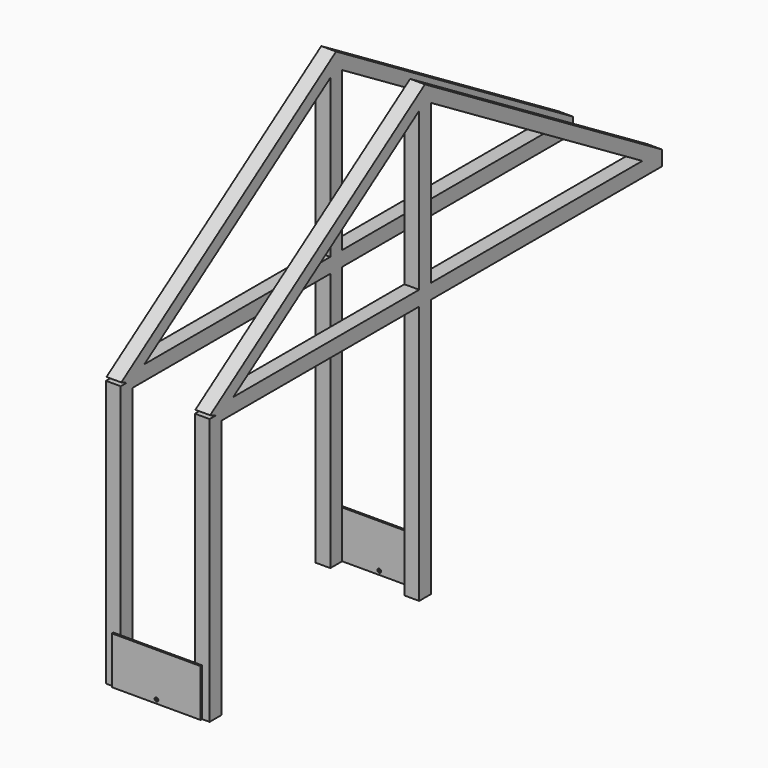
from build123d import *

# Parameters (mm, degrees)
F1_W           = 50.8
F1_H           = 50.8
F4_W           = 50.8
F4_H           = 50.8
F7_W           = 50.8
F7_H           = 50.8
F11_W          = 279.4
F11_H          = 162.5629514456
F11_W_2        = 25.4
F12_DEPTH      = 6.35
F13_W          = 304.8
F13_H          = 162.5629514456
F14_DEPTH      = 6.35
F18_DEPTH      = 930.276
F18_DEPTH_BACK = 1016.001


with BuildPart() as f2:
    # F2: sweep along a path in F0
    with BuildLine(Plane.YZ) as f2_path:
        Line((0, 0), (0, 914.4))
        Line((0, 914.4), (0, 1524))
    # F1 (on Top) → F2 (sweep)
    with BuildSketch(Plane.XY):
        Rectangle(F1_W, F1_H)
    sweep(path=f2_path.line)

    # F5: sweep along a path in F0
    with BuildLine(Plane.YZ) as f5_path:
        Line((1016, 914.4), (0, 914.4))
        Line((0, 914.4), (-898.525, 914.4))
    # F4 (on plane+point) → F5 (sweep)
    with BuildSketch(Plane.XZ.offset(-1016)):
        with Locations((0, 914.4)):
            Rectangle(F4_W, F4_H)
    sweep(path=f5_path.line)

    # F6: sweep along a path in F0
    with BuildLine(Plane.YZ) as f6_path:
        Line((1016, 914.4), (0, 1524))
        Line((0, 1524), (-898.525, 914.4))
    # F4 (on plane+point) → F6 (sweep)
    with BuildSketch(Plane.XZ.offset(-1016)):
        with Locations((0, 914.4)):
            Rectangle(F4_W, F4_H)
    sweep(path=f6_path.line, transition=Transition.RIGHT)

    # F8: sweep along a path in F0
    with BuildLine(Plane.YZ) as f8_path:
        Line((-898.525, 0), (-898.525, 914.4))
    # F7 (on Top) → F8 (sweep)
    with BuildSketch(Plane.XY):
        with Locations((0, -898.525)):
            Rectangle(F7_W, F7_H)
    sweep(path=f8_path.line)


with BuildPart() as f10_1:
    # F10: instance of F2
    add(f2.part.mirror(Plane.YZ.offset(152.4)))


with BuildPart() as f12:
    # F11 (on face) → F12 (new body)
    with BuildSketch(Plane.XZ.offset(923.925)):
        with Locations((139.7, 81.2814757228)):
            Rectangle(F11_W, F11_H)
        with Locations((292.1, 81.2814757228)):
            Rectangle(F11_W_2, F11_H)
    extrude(amount=F12_DEPTH)


with BuildPart() as f14:
    # F13 (on face) → F14 (new body)
    with BuildSketch(Plane(origin=(0, 25.4, 0), x_dir=(-1, 0, 0), z_dir=(0, 1, 0))):
        with Locations((-152.4, 81.2814757228)):
            Rectangle(F13_W, F13_H)
    extrude(amount=F14_DEPTH)


with BuildPart() as f18_tool:
    # F17 (on Front) → F18 (new body, two sides)
    with BuildSketch(Plane.XZ) as f18_sk:
        with BuildLine():
            ThreePointArc((159.3381964918, 13.0454395062), (152.9431460914, 19.0523229376), (146.6517872176, 12.9369225662))
            ThreePointArc((146.6517872176, 12.9369225662), (152.9974607006, 12.7025552313), (159.3381964918, 13.0454395062))
        make_face()
        with BuildLine():
            ThreePointArc((159.3381964918, 13.0454395062), (152.9974607006, 12.7025552313), (146.6517872176, 12.9369225662))
            ThreePointArc((146.6517872176, 12.9369225662), (152.8802570675, 6.3536369527), (159.3474607006, 12.7025552313))
            ThreePointArc((159.3474607006, 12.7025552313), (159.3451442259, 12.8740599335), (159.3381964918, 13.0454395062))
        make_face()
    extrude(amount=F18_DEPTH)
    extrude(f18_sk.sketch, amount=-F18_DEPTH_BACK)


with BuildPart() as f12_1:
    add(f12.part)

    # F18: cut by f18_tool
    add(f18_tool.part, mode=Mode.SUBTRACT)


with BuildPart() as f14_1:
    add(f14.part)

    # F18: cut by f18_tool
    add(f18_tool.part, mode=Mode.SUBTRACT)


solid = Compound([f2.part, f10_1.part, f12_1.part, f14_1.part])
